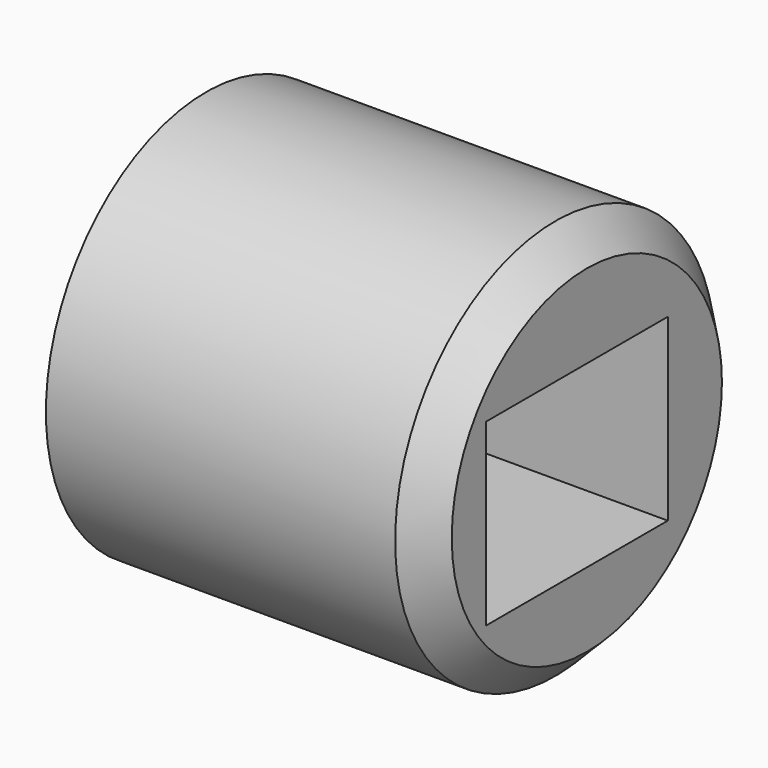
from build123d import *

# Parameters (mm, degrees)
F0_R     = 44.5718296496
F1_DEPTH = 59.713
F2_DEPTH = 25
F3_W     = 50.5398474634
F3_H     = 39.9477705359
F4_DEPTH = 128.1019449234
F5_SIZE  = 7


with BuildPart() as f1:
    # F0 (on Right) → F1 (new body)
    with BuildSketch(Plane.YZ):
        Circle(F0_R)
    extrude(amount=F1_DEPTH)

    # F2 (add): a face of the model
    f2_faces = [f1.faces().sort_by_distance(p)[0] for p in [
        (59.713, 0, 0),
    ]]
    extrude(f2_faces, amount=F2_DEPTH)

    # F3 (on face) → F4 (cut)
    with BuildSketch(Plane.YZ.offset(84.713)):
        with Locations((-2.7490835637, -1.037882641)):
            Rectangle(F3_W, F3_H)
    extrude(amount=-F4_DEPTH, mode=Mode.SUBTRACT)

    # F5
    f5_edges = [f1.edges().sort_by_distance(p)[0] for p in [
        (84.713, -44.57183, 0),
    ]]
    chamfer(f5_edges, length=F5_SIZE)


solid = f1.part
